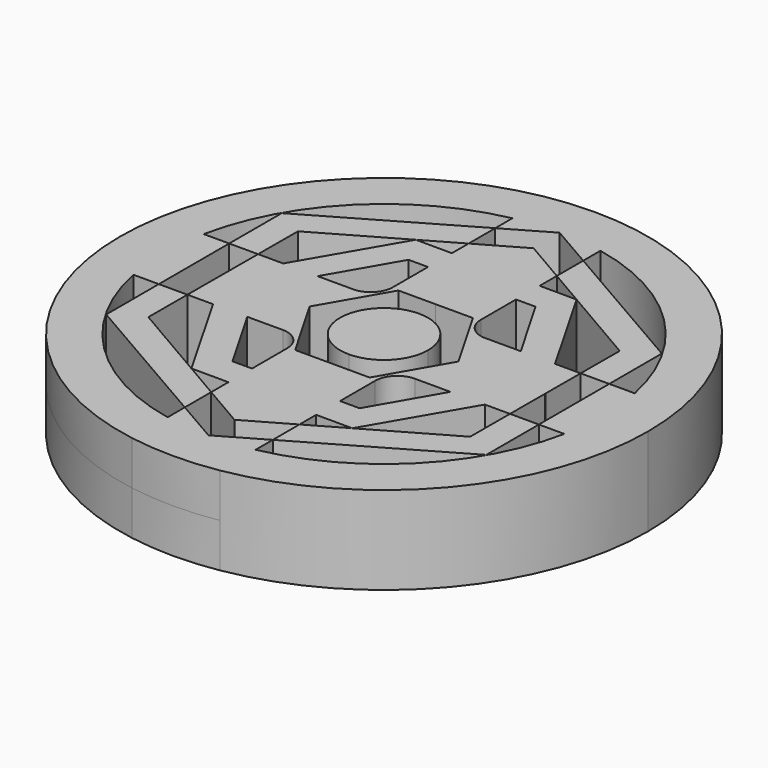
from build123d import *

# Parameters (mm, degrees)
F1_DEPTH = 12.7


with BuildPart() as f1:
    # F0 (on Top) → F1 (new body, symmetric)
    with BuildSketch(Plane.XY):
        with BuildLine():
            ThreePointArc((75.1342132454, -12.7), (75.9330858365, -6.3723210333), (76.2, 0))
            ThreePointArc((76.2, 0), (75.9330858365, 6.3723210333), (75.1342132454, 12.7))
            ThreePointArc((75.1342132454, 12.7), (53.8815367264, 53.8815367264), (12.7, 75.1342132454))
            ThreePointArc((12.7, 75.1342132454), (7.78e-08, 76.2), (-12.6999998465, 75.1342132713))
            ThreePointArc((-12.6999998465, 75.1342132713), (-53.8815366714, 53.8815367814), (-75.1342132454, 12.7))
            ThreePointArc((-75.1342132454, 12.7), (-76.2, 0), (-75.1342132454, -12.7))
            ThreePointArc((-75.1342132454, -12.7), (-53.8815367264, -53.8815367264), (-12.7, -75.1342132454))
            ThreePointArc((-12.7, -75.1342132454), (0, -76.2), (12.7, -75.1342132454))
            ThreePointArc((12.7, -75.1342132454), (53.8815367264, -53.8815367264), (75.1342132454, -12.7))
        make_face()
        with BuildLine():
            ThreePointArc((12.7, 62.2170394667), (44.9012806053, 44.9012806053), (62.2170394667, 12.7))
            Line((62.2170394667, 12.7), (54.8591923875, 12.7))
            Line((54.8591923875, 12.7), (54.8591923875, 0))
            Line((54.8591923875, 0), (54.8591923875, -12.7))
            Line((54.8591923875, -12.7), (62.2170394667, -12.7))
            ThreePointArc((62.2170394667, -12.7), (44.9012806053, -44.9012806053), (12.7, -62.2170394667))
            Line((12.7, -62.2170394667), (12.7, -56.0135905662))
            Line((12.7, -56.0135905662), (0, -63.345938985))
            Line((0, -63.345938985), (-12.7, -56.0135905662))
            Line((-12.7, -56.0135905662), (-12.7, -62.2170394667))
            ThreePointArc((-12.7, -62.2170394667), (-44.9012806053, -44.9012806053), (-62.2170394667, -12.7))
            Line((-62.2170394667, -12.7), (-54.8591923875, -12.7))
            Line((-54.8591923875, -12.7), (-54.8591923875, 0))
            Line((-54.8591923875, 0), (-54.8591923875, 12.7))
            Line((-54.8591923875, 12.7), (-62.2170394667, 12.7))
            ThreePointArc((-62.2170394667, 12.7), (-44.90128055, 44.9012806607), (-12.6999998465, 62.217039498))
            Line((-12.6999998465, 62.217039498), (-12.6999998465, 56.0135906549))
            Line((-12.6999998465, 56.0135906549), (0, 63.345938985))
            Line((0, 63.345938985), (12.7, 56.0135905662))
            Line((12.7, 56.0135905662), (12.7, 62.2170394667))
        make_face(mode=Mode.SUBTRACT)
    extrude(amount=F1_DEPTH, both=True)


with BuildPart() as f1b:
    # F0 (on Top) → F1, piece 2 (new body, symmetric)
    with BuildSketch(Plane.XY):
        Polygon((-12.6999998465, 31.75), (-12.6999998465, 40.3638147368), (-23.1565790973, 40.3961253963), (-39.2612559174, 12.7), (-29.3293936748, 12.7), (-18.3308710468, 31.75), align=None)
        Polygon((-29.3293936748, 12.7), (-39.2612559174, 12.7), (-46.5623603563, 0.1438769352), (-46.4798846833, 0), (-36.6617420935, 0), align=None)
        Polygon((-29.3293936748, -12.7), (-36.6617420935, 0), (-46.4798846833, 0), (-39.1997668094, -12.7), align=None)
        Polygon((-23.405781259, -40.2522484612), (-12.7, -40.2853291509), (-12.7, -31.75), (-18.3308710468, -31.75), (-29.3293936748, -12.7), (-39.1997668094, -12.7), align=None)
        Polygon((-12.7, -40.2853291509), (0, -40.3245719441), (0, -31.75), (-12.7, -31.75), align=None)
        Polygon((0, -40.3245719441), (12.7, -40.3638147372), (12.7, -31.75), (0, -31.75), align=None)
        Polygon((23.1565790973, -40.3961253963), (39.2612559174, -12.7), (29.3293936748, -12.7), (18.3308710468, -31.75), (12.7, -31.75), (12.7, -40.3638147372), align=None)
        Polygon((46.5623603563, -0.1438769352), (46.4798846833, 0), (36.6617420935, 0), (29.3293936748, -12.7), (39.2612559174, -12.7), align=None)
        Polygon((46.4798846833, 0), (39.1997668094, 12.7), (29.3293936748, 12.7), (36.6617420935, 0), align=None)
        Polygon((29.3293936748, 12.7), (39.1997668094, 12.7), (23.405781259, 40.2522484612), (12.7, 40.2853291509), (12.7, 31.75), (18.3308710468, 31.75), align=None)
        Polygon((12.7, 31.75), (12.7, 40.2853291509), (0, 40.3245719441), (0, 31.75), align=None)
        Polygon((0, 31.75), (0, 40.3245719441), (-12.6999998465, 40.3638147368), (-12.6999998465, 31.75), align=None)
        with BuildLine():
            Line((36.6617420935, 0), (29.3293936748, 12.7))
            Line((29.3293936748, 12.7), (19.05, 12.7))
            ThreePointArc((19.05, 12.7), (14.5598719395, 14.5598719395), (12.7, 19.05))
            Line((12.7, 19.05), (12.7, 31.75))
            Line((12.7, 31.75), (0, 31.75))
            Line((0, 31.75), (0, 18.6173117573))
            Line((0, 18.6173117573), (10.7546742122, 18.613865743))
            Line((10.7546742122, 18.613865743), (21.493443737, 0))
            Line((21.493443737, 0), (36.6617420935, 0))
        make_face()
        with BuildLine():
            Line((29.3293936748, -12.7), (36.6617420935, 0))
            Line((36.6617420935, 0), (21.493443737, 0))
            Line((21.493443737, 0), (21.4974177022, -0.0068882057))
            Line((21.4974177022, -0.0068882057), (10.74274349, -18.6207539487))
            Line((10.74274349, -18.6207539487), (0, -18.6173117573))
            Line((0, -18.6173117573), (0, -31.75))
            Line((0, -31.75), (12.7, -31.75))
            Line((12.7, -31.75), (12.7, -19.05))
            ThreePointArc((12.7, -19.05), (14.5598719395, -14.5598719395), (19.05, -12.7))
            Line((19.05, -12.7), (29.3293936748, -12.7))
        make_face()
        with BuildLine():
            Line((-21.493443737, 0), (-36.6617420935, 0))
            Line((-36.6617420935, 0), (-29.3293936748, -12.7))
            Line((-29.3293936748, -12.7), (-19.05, -12.7))
            ThreePointArc((-19.05, -12.7), (-14.5598719395, -14.5598719395), (-12.7, -19.05))
            Line((-12.7, -19.05), (-12.7, -31.75))
            Line((-12.7, -31.75), (0, -31.75))
            Line((0, -31.75), (0, -18.6173117573))
            Line((0, -18.6173117573), (-10.7546742122, -18.613865743))
            Line((-10.7546742122, -18.613865743), (-21.493443737, 0))
        make_face()
        with BuildLine():
            Line((0, 18.6173117573), (0, 31.75))
            Line((0, 31.75), (-12.6999998465, 31.75))
            Line((-12.6999998465, 31.75), (-12.6999998465, 19.05))
            ThreePointArc((-12.6999998465, 19.05), (-14.559871786, 14.5598719395), (-19.0499998465, 12.7))
            Line((-19.0499998465, 12.7), (-29.3293936748, 12.7))
            Line((-29.3293936748, 12.7), (-36.6617420935, 0))
            Line((-36.6617420935, 0), (-21.493443737, 0))
            Line((-21.493443737, 0), (-21.4974177022, 0.0068882057))
            Line((-21.4974177022, 0.0068882057), (-10.74274349, 18.6207539487))
            Line((-10.74274349, 18.6207539487), (0, 18.6173117573))
        make_face()
        Polygon((0, 40.3245719441), (0, 53.6703478676), (-12.6999998465, 46.3902300817), (-12.6999998465, 40.3638147368), align=None)
        Polygon((12.7, 40.2853291509), (12.7, 46.477420568), (0.1661347745, 53.7655825717), (0, 53.6703478676), (0, 40.3245719441), align=None)
        Polygon((46.5628049337, 0), (46.6020477269, 12.7), (39.1997668094, 12.7), (46.4798846833, 0), align=None)
        Polygon((46.5235621406, -12.7), (46.5623603563, -0.1438769352), (39.2612559174, -12.7), align=None)
        Polygon((0, -53.6703478676), (12.7, -46.3902299937), (12.7, -40.3638147372), (0, -40.3245719441), align=None)
        Polygon((-0.1661347745, -53.7655825717), (0, -53.6703478676), (0, -40.3245719441), (-12.7, -40.2853291509), (-12.7, -46.477420568), align=None)
        Polygon((-46.4798846833, 0), (-46.5628049337, 0), (-46.6020477269, -12.7), (-39.1997668094, -12.7), align=None)
        Polygon((-46.5623603563, 0.1438769352), (-39.2612559174, 12.7), (-46.5235621406, 12.7), align=None)
    extrude(amount=F1_DEPTH, both=True)


with BuildPart() as f1c:
    # F0 (on Top) → F1, piece 3 (new body, symmetric)
    with BuildSketch(Plane.XY):
        Polygon((46.6020477269, 12.7), (54.8591923875, 12.7), (54.8591923875, 31.6729694925), (12.7, 56.0135905662), (12.7, 46.477420568), (23.405781259, 40.2522484612), (46.6454277436, 26.7389143507), align=None)
    extrude(amount=F1_DEPTH, both=True)


with BuildPart() as f1d:
    # F0 (on Top) → F1, piece 4 (new body, symmetric)
    with BuildSketch(Plane.XY):
        Polygon((54.8591923875, -31.6729694925), (54.8591923875, -12.7), (46.5235621406, -12.7), (46.4792929691, -27.026668221), (23.1565790973, -40.3961253963), (12.7, -46.3902299937), (12.7, -56.0135905662), align=None)
    extrude(amount=F1_DEPTH, both=True)


with BuildPart() as f1e:
    # F0 (on Top) → F1, piece 5 (new body, symmetric)
    with BuildSketch(Plane.XY):
        Polygon((-54.8591923875, -31.6729694925), (-12.7, -56.0135905662), (-12.7, -46.477420568), (-23.405781259, -40.2522484612), (-46.6454277436, -26.7389143507), (-46.6020477269, -12.7), (-54.8591923875, -12.7), align=None)
    extrude(amount=F1_DEPTH, both=True)


with BuildPart() as f1f:
    # F0 (on Top) → F1, piece 6 (new body, symmetric)
    with BuildSketch(Plane.XY):
        Polygon((-12.6999998465, 46.3902300817), (-12.6999998465, 56.0135906549), (-54.8591923875, 31.6729694925), (-54.8591923875, 12.7), (-46.5235621406, 12.7), (-46.4792929691, 27.026668221), (-23.1565790973, 40.3961253963), align=None)
    extrude(amount=F1_DEPTH, both=True)


with BuildPart() as f1g:
    # F0 (on Top) → F1, piece 7 (new body, symmetric)
    with BuildSketch(Plane.XY):
        with BuildLine():
            Line((0, 0), (0, 12.7))
            ThreePointArc((0, 12.7), (-8.9802561211, 8.9802561211), (-12.7, 0))
            Line((-12.7, 0), (0, 0))
        make_face()
        with BuildLine():
            Line((0, 0), (12.7, 0))
            ThreePointArc((12.7, 0), (8.9802561211, 8.9802561211), (0, 12.7))
            Line((0, 12.7), (0, 0))
        make_face()
        with BuildLine():
            ThreePointArc((0, -12.7), (8.9802561211, -8.9802561211), (12.7, 0))
            Line((12.7, 0), (0, 0))
            Line((0, 0), (0, -12.7))
        make_face()
        with BuildLine():
            ThreePointArc((-12.7, 0), (-8.9802561211, -8.9802561211), (0, -12.7))
            Line((0, -12.7), (0, 0))
            Line((0, 0), (-12.7, 0))
        make_face()
    extrude(amount=F1_DEPTH, both=True)


solid = Compound([f1.part, f1b.part, f1c.part, f1d.part, f1e.part, f1f.part, f1g.part])
